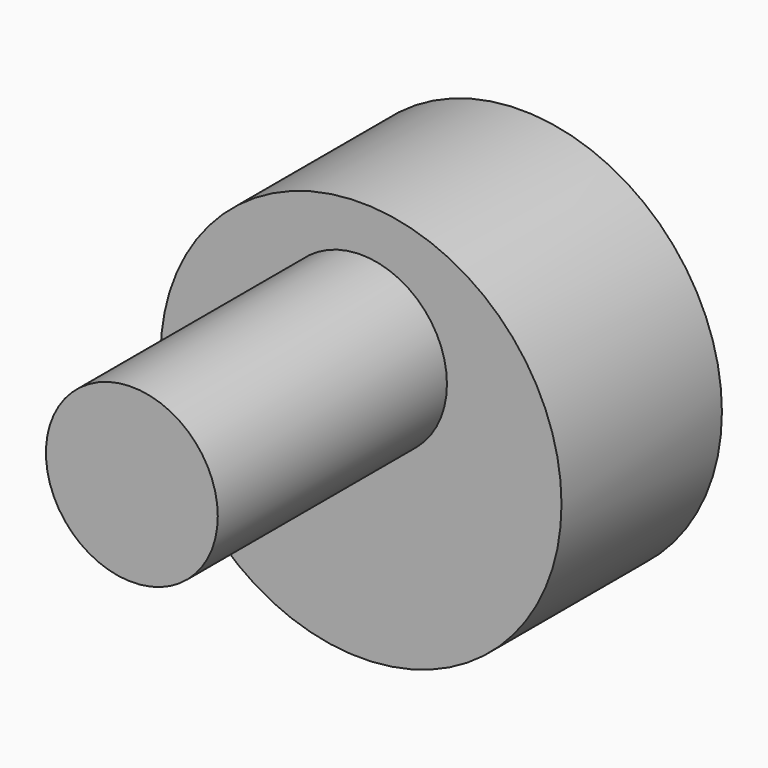
from build123d import *

# Parameters (mm, degrees)
F0_R     = 35
F1_DEPTH = 17.5
F2_R     = 15
F3_DEPTH = 50


with BuildPart() as f1:
    # F0 (on Front) → F1 (new body, symmetric)
    with BuildSketch(Plane.XZ):
        Circle(F0_R)
    extrude(amount=F1_DEPTH, both=True)

    # F2 (on face) → F3 (join)
    with BuildSketch(Plane.XZ.offset(17.5)):
        with Locations((0, 12)):
            Circle(F2_R)
    extrude(amount=F3_DEPTH)


solid = f1.part
